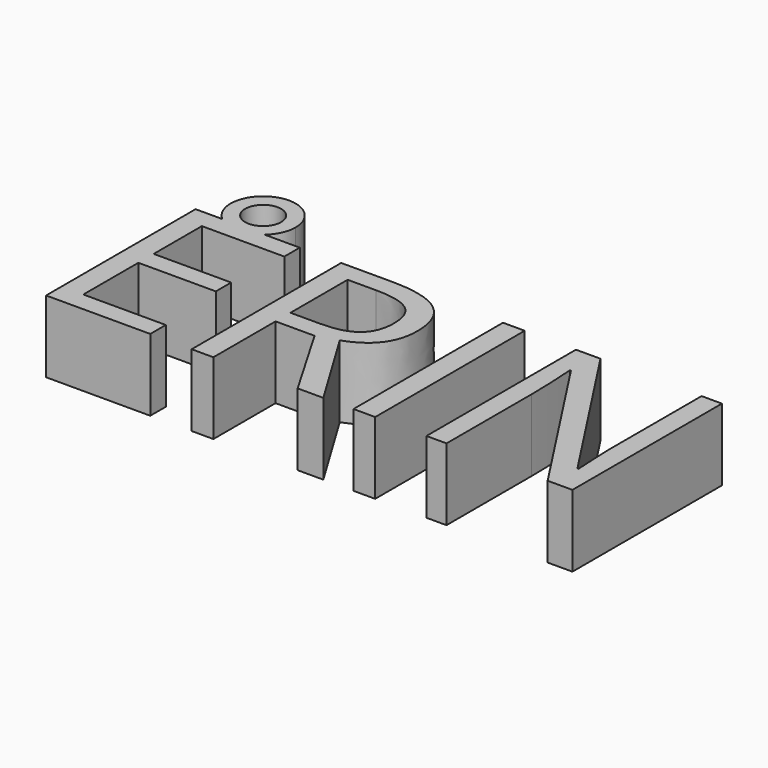
from build123d import *

# Parameters (mm, degrees)
F0_R     = 3.298
F0_W     = 3.9800835275
F0_H     = 34.2467074145
F1_DEPTH = 13.2


with BuildPart() as f1:
    # F0 (on Top) → F1 (new body)
    with BuildSketch(Plane.XY):
        with BuildLine():
            ThreePointArc((-36.3632279745, 16.172601688), (-34.8332284537, 18.2028186515), (-34.2901903666, 20.6863220416))
            ThreePointArc((-34.2901903666, 20.6863220416), (-42.7241782679, 26.0937684658), (-44.1181217811, 16.172601688))
            Line((-44.1181217811, 16.172601688), (-36.3632279745, 16.172601688))
        make_face()
        with Locations((-40.2406748778, 20.6863220416)):
            Circle(F0_R, mode=Mode.SUBTRACT)
        with BuildLine():
            Line((-36.3632279745, 16.172601688), (-44.1181217811, 16.172601688))
            ThreePointArc((-44.1181217811, 16.172601688), (-40.2406748778, 14.7358375304), (-36.3632279745, 16.172601688))
        make_face()
        with BuildLine():
            ThreePointArc((-36.3632279745, 16.172601688), (-40.2406748778, 14.7358375304), (-44.1181217811, 16.172601688))
            Line((-44.1181217811, 16.172601688), (-49.00983037, 16.172601688))
            Line((-49.00983037, 16.172601688), (-49.00983037, -18.0741057266))
            Line((-49.00983037, -18.0741057266), (-29.9189212466, -18.0741057266))
            Line((-29.9189212466, -18.0741057266), (-29.9189212466, -14.5137673545))
            Line((-29.9189212466, -14.5137673545), (-45.0297468425, -14.5137673545))
            Line((-45.0297468425, -14.5137673545), (-45.0297468425, -1.913917242))
            Line((-45.0297468425, -1.913917242), (-30.8333660495, -1.913917242))
            Line((-30.8333660495, -1.913917242), (-30.8333660495, 1.6014484348))
            Line((-30.8333660495, 1.6014484348), (-45.0297468425, 1.6014484348))
            Line((-45.0297468425, 1.6014484348), (-45.0297468425, 12.6347496635))
            Line((-45.0297468425, 12.6347496635), (-29.9189212466, 12.6347496635))
            Line((-29.9189212466, 12.6347496635), (-29.9189212466, 16.172601688))
            Line((-29.9189212466, 16.172601688), (-36.3632279745, 16.172601688))
        make_face()
        with BuildLine():
            Line((-18.3534431243, -18.0741057266), (-18.3534431243, -3.8327522383))
            Line((-18.3534431243, -3.8327522383), (-11.2027845834, -3.8327522383))
            Line((-11.2027845834, -3.8327522383), (-2.9128177634, -18.0741057266))
            Line((-2.9128177634, -18.0741057266), (1.7943243369, -18.0741057266))
            Line((1.7943243369, -18.0741057266), (-7.5075281256, -2.6859485101))
            add(Edge.make_bspline(
                [(-0.6192103069, 6.4959767652), (-0.6192103069, -0.2949002139), (-7.5075281256, -2.6859485101)],
                knots=[0, 0, 0, 1, 1, 1], degree=2))
            add(Edge.make_bspline(
                [(-3.6286331624, 13.7590670442), (-0.6192103069, 11.3455324004), (-0.6192103069, 6.4959767652)],
                knots=[0, 0, 0, 1, 1, 1], degree=2))
            add(Edge.make_bspline(
                [(-12.9417287988, 16.172601688), (-6.6380560179, 16.172601688), (-3.6286331624, 13.7590670442)],
                knots=[0, 0, 0, 1, 1, 1], degree=2))
            Line((-12.9417287988, 16.172601688), (-22.3335266518, 16.172601688))
            Line((-22.3335266518, 16.172601688), (-22.3335266518, -18.0741057266))
            Line((-22.3335266518, -18.0741057266), (-18.3534431243, -18.0741057266))
        make_face()
        with BuildLine():
            Line((-12.8892606543, -0.4148274012), (-18.3534431243, -0.4148274012))
            Line((-18.3534431243, -0.4148274012), (-18.3534431243, 12.6797223588))
            Line((-18.3534431243, 12.6797223588), (-13.1740877241, 12.6797223588))
            add(Edge.make_bspline(
                [(-6.7429923068, 11.1806325179), (-8.7442772444, 12.6797223588), (-13.1740877241, 12.6797223588)],
                knots=[0, 0, 0, 1, 1, 1], degree=2))
            add(Edge.make_bspline(
                [(-4.7417073692, 6.2861041875), (-4.7417073692, 9.681542677), (-6.7429923068, 11.1806325179)],
                knots=[0, 0, 0, 1, 1, 1], degree=2))
            add(Edge.make_bspline(
                [(-6.7092627854, 1.260405496), (-4.7417073692, 2.9356383932), (-4.7417073692, 6.2861041875)],
                knots=[0, 0, 0, 1, 1, 1], degree=2))
            add(Edge.make_bspline(
                [(-12.8892606543, -0.4148274012), (-8.6768182015, -0.4148274012), (-6.7092627854, 1.260405496)],
                knots=[0, 0, 0, 1, 1, 1], degree=2))
        make_face(mode=Mode.SUBTRACT)
        with Locations((9.3085121643, -0.9507520193)):
            Rectangle(F0_W, F0_H)
        with BuildLine():
            Line((42.8993677734, -18.0741057266), (47.4416099912, -18.0741057266))
            Line((47.4416099912, -18.0741057266), (47.4416099912, 16.172601688))
            Line((47.4416099912, 16.172601688), (43.7163717367, 16.172601688))
            Line((43.7163717367, 16.172601688), (43.7163717367, -3.4804661257))
            add(Edge.make_bspline(
                [(43.836298924, -8.3899853546), (43.6713990415, -4.957069619), (43.7163717367, -3.4804661257)],
                knots=[0, 0, 0, 1, 1, 1], degree=2))
            add(Edge.make_bspline(
                [(44.0461715017, -12.4525188233), (44.0011988065, -11.8229010902), (43.836298924, -8.3899853546)],
                knots=[0, 0, 0, 1, 1, 1], degree=2))
            Line((44.0461715017, -12.4525188233), (43.8587852716, -12.4525188233))
            Line((43.8587852716, -12.4525188233), (25.1876213036, 16.172601688))
            Line((25.1876213036, 16.172601688), (20.690351781, 16.172601688))
            Line((20.690351781, 16.172601688), (20.690351781, -18.0741057266))
            Line((20.690351781, -18.0741057266), (24.3706173403, -18.0741057266))
            Line((24.3706173403, -18.0741057266), (24.3706173403, 1.3915758571))
            add(Edge.make_bspline(
                [(23.9958448801, 10.6634465228), (24.3706173403, 5.6040183099), (24.3706173403, 1.3915758571)],
                knots=[0, 0, 0, 1, 1, 1], degree=2))
            Line((23.9958448801, 10.6634465228), (24.1832311102, 10.6634465228))
            Line((24.1832311102, 10.6634465228), (42.8993677734, -18.0741057266))
        make_face()
    extrude(amount=-F1_DEPTH)


solid = f1.part
